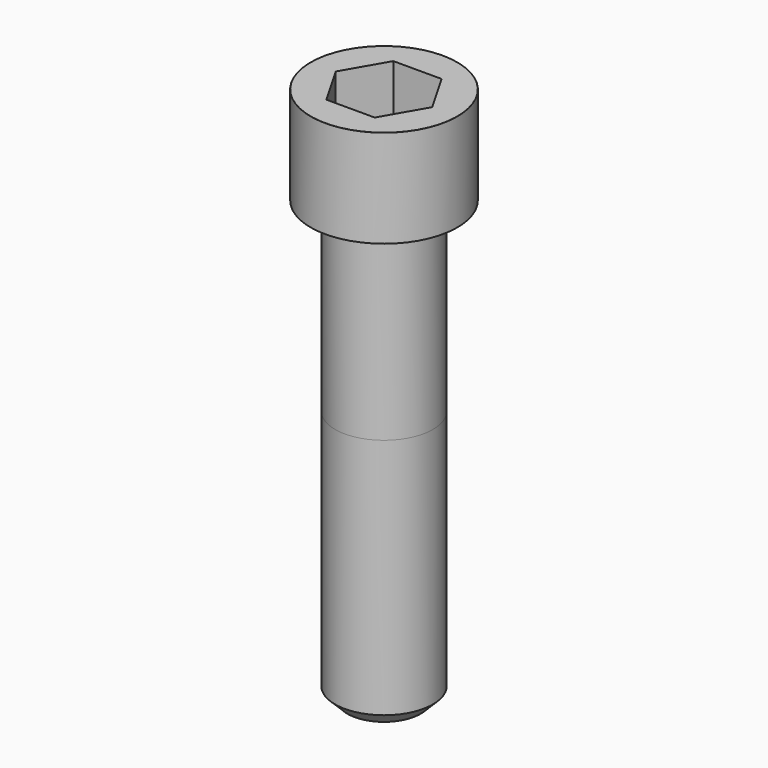
from build123d import *

# Parameters (mm, degrees)
POCKET_DEPTH = 17.1


with BuildPart() as part:
    # Sketch → Revolve (revolve)
    with BuildSketch(Plane.YZ):
        with BuildLine():
            Line((9.999, 0), (15, 0))
            Line((15, 0), (15, 19.97229))
            ThreePointArc((15, 19.97229), (14.991884, 19.991884), (14.97229, 20))
            Line((14.97229, 20), (0, 20))
            Line((0, -90), (0, 20))
            Line((7.5, -90), (0, -90))
            Line((10, -87.5), (7.5, -90))
            Line((10, -38), (10, -87.5))
            Line((9.999, 0), (10, -38))
        make_face()
    revolve(axis=Axis((0, 0, 0), (0, 0, 1)))

    # Sketch001 → Pocket (cut)
    with BuildSketch(Plane.XY.offset(20)):
        Polygon((9.87269, 0), (4.936345, 8.55), (-4.936345, 8.55), (-9.87269, 0), (-4.936345, -8.55), (4.936345, -8.55), align=None)
    extrude(amount=-POCKET_DEPTH, mode=Mode.SUBTRACT)


solid = part.part
